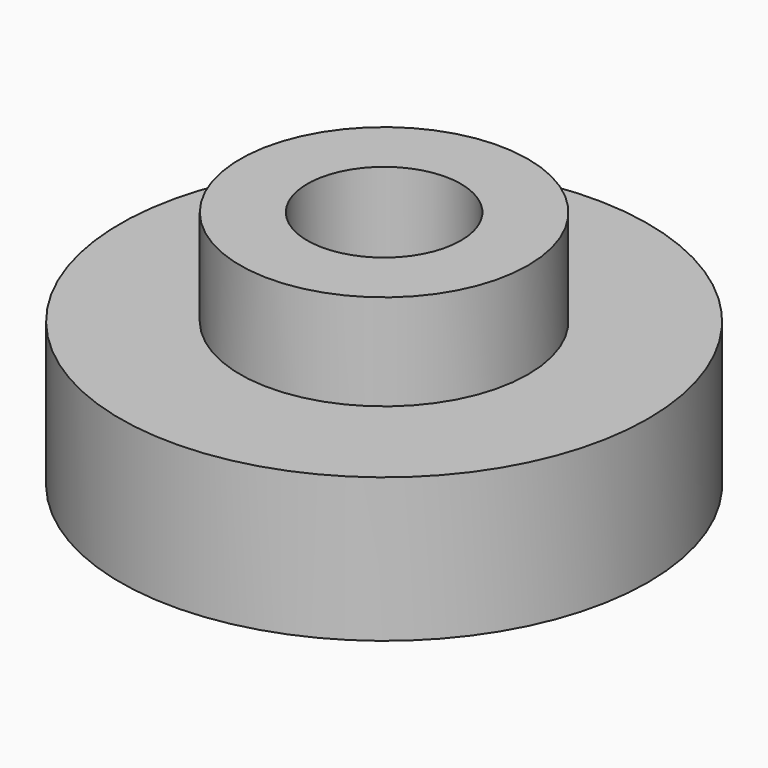
from build123d import *

# Parameters (mm, degrees)
SKETCH_R     = 5.5
PAD_DEPTH    = 3
SKETCH001_R  = 3
PAD001_DEPTH = 2
SKETCH002_R  = 1.6
POCKET_DEPTH = 5


with BuildPart() as part:
    # Sketch → Pad (new body)
    with BuildSketch(Plane.XY):
        Circle(SKETCH_R)
    extrude(amount=PAD_DEPTH)

    # Sketch001 (on Face3 of Pad) → Pad001 (join)
    with BuildSketch(Plane.XY.offset(3)):
        Circle(SKETCH001_R)
    extrude(amount=PAD001_DEPTH)

    # Sketch002 (on Face5 of Pad001) → Pocket (cut)
    with BuildSketch(Plane.XY.offset(5)):
        Circle(SKETCH002_R)
    extrude(amount=-POCKET_DEPTH, mode=Mode.SUBTRACT)


solid = part.part
